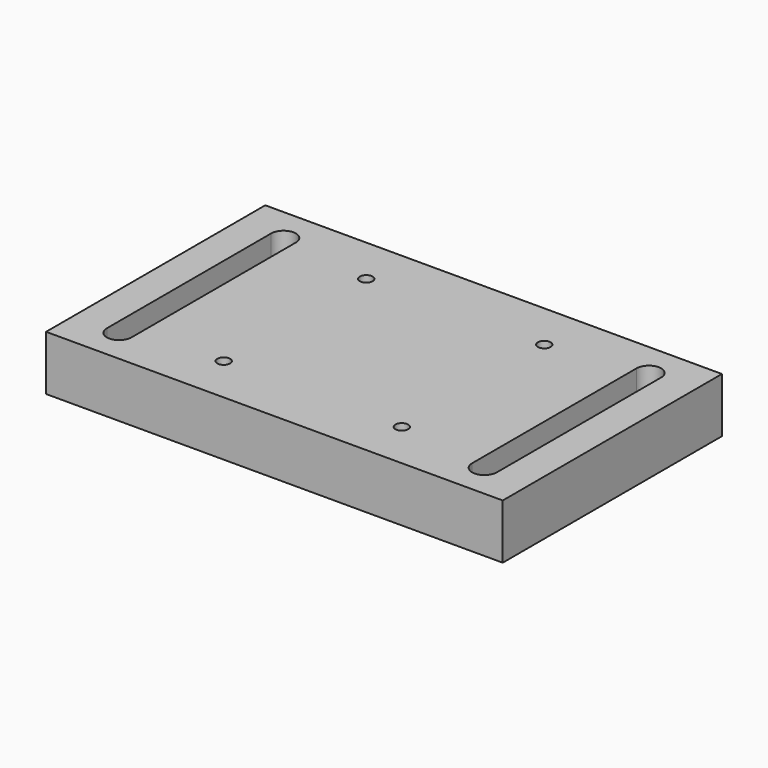
from build123d import *

# Parameters (mm, degrees)
F0_W     = 127
F0_H     = 76.2
F1_DEPTH = 15.24
F3_DEPTH = 15.241
F4_T     = -3.81
F5_R     = 1.778
F6_DEPTH = 15.241


with BuildPart() as f1:
    # F0 (on Top) → F1 (new body)
    with BuildSketch(Plane.XY):
        Rectangle(F0_W, F0_H)
    extrude(amount=F1_DEPTH)

    # F2 (on Top) → F3 (cut, through all)
    with BuildSketch(Plane.XY):
        with BuildLine():
            ThreePointArc((-47.371, 28.575), (-50.8, 32.004), (-54.229, 28.575))
            Line((-54.229, 28.575), (-54.229, -28.575))
            ThreePointArc((-54.229, -28.575), (-50.8, -32.004), (-47.371, -28.575))
            Line((-47.371, -28.575), (-47.371, 28.575))
        make_face()
        with BuildLine():
            ThreePointArc((54.229, 28.575), (50.8, 32.004), (47.371, 28.575))
            Line((47.371, 28.575), (47.371, -28.575))
            ThreePointArc((47.371, -28.575), (50.8, -32.004), (54.229, -28.575))
            Line((54.229, -28.575), (54.229, 28.575))
        make_face()
    extrude(amount=F3_DEPTH, mode=Mode.SUBTRACT)

    # F4
    f4_openings = [f1.faces().sort_by_distance(p)[0] for p in [
        (0, 0, 0),
    ]]
    offset(amount=F4_T, openings=f4_openings)

    # F5 (on Top) → F6 (cut, through all)
    with BuildSketch(Plane.XY):
        with Locations((-24.765, 24.765)):
            Circle(F5_R)
        with Locations((24.765, 24.765)):
            Circle(F5_R)
        with Locations((-24.765, -24.765)):
            Circle(F5_R)
        with Locations((24.765, -24.765)):
            Circle(F5_R)
    extrude(amount=F6_DEPTH, mode=Mode.SUBTRACT)


solid = f1.part
